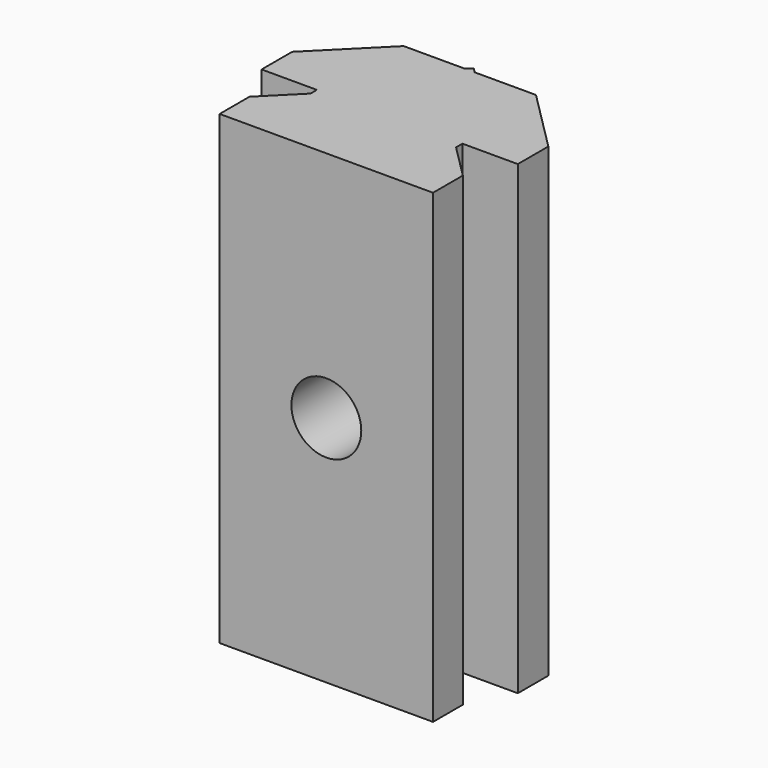
from build123d import *

# Parameters (mm, degrees)
F1_DEPTH = 20
F2_R     = 1.5
F3_DEPTH = 25


with BuildPart() as f1:
    # F0 (on Top) → F1 (new body)
    with BuildSketch(Plane.XY):
        Polygon((4.58, -16), (4.58, -14.4), (3.125, -12.945), (3.125, -12.6), (5.5, -12.6), (5.5, -10.96066), (2.83934, -8.3), (0.21, -8.3), (0, -8.09), (-0.21, -8.3), (-2.83934, -8.3), (-5.5, -10.96066), (-5.5, -12.6), (-3.125, -12.6), (-3.125, -12.945), (-4.58, -14.4), (-4.58, -16), align=None)
    extrude(amount=-F1_DEPTH)

    # F2 (on face) → F3 (cut)
    with BuildSketch(Plane.XZ.offset(16)):
        with Locations((0, -10)):
            Circle(F2_R)
    extrude(amount=-F3_DEPTH, mode=Mode.SUBTRACT)


solid = f1.part
